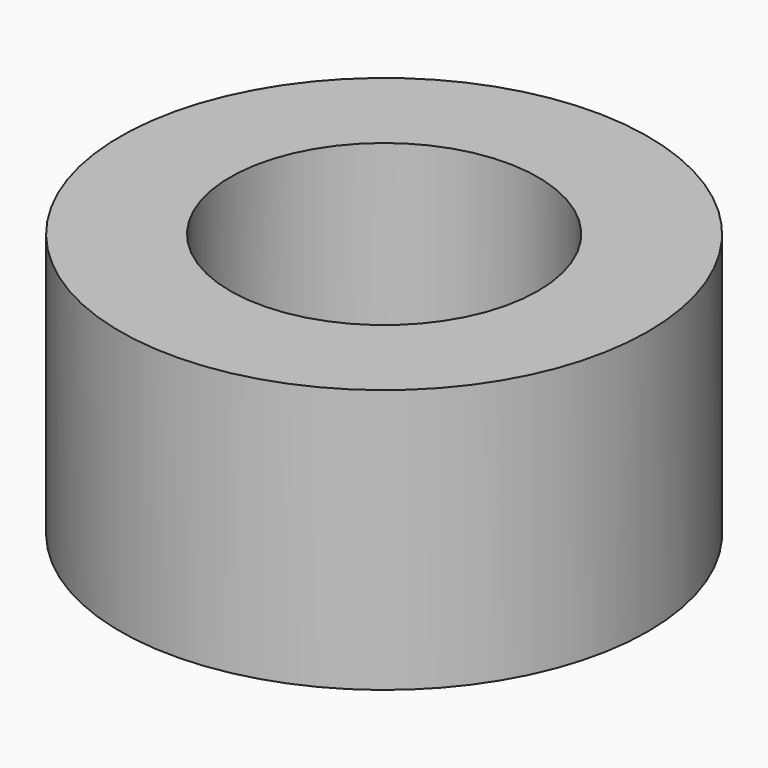
from build123d import *

# Parameters (mm, degrees)
SKETCH_R   = 3
SKETCH_R_2 = 1.75
PAD_DEPTH  = 3


with BuildPart() as part:
    # Sketch → Pad (new body)
    with BuildSketch(Plane.XY):
        Circle(SKETCH_R)
        Circle(SKETCH_R_2, mode=Mode.SUBTRACT)
    extrude(amount=PAD_DEPTH)


solid = part.part
